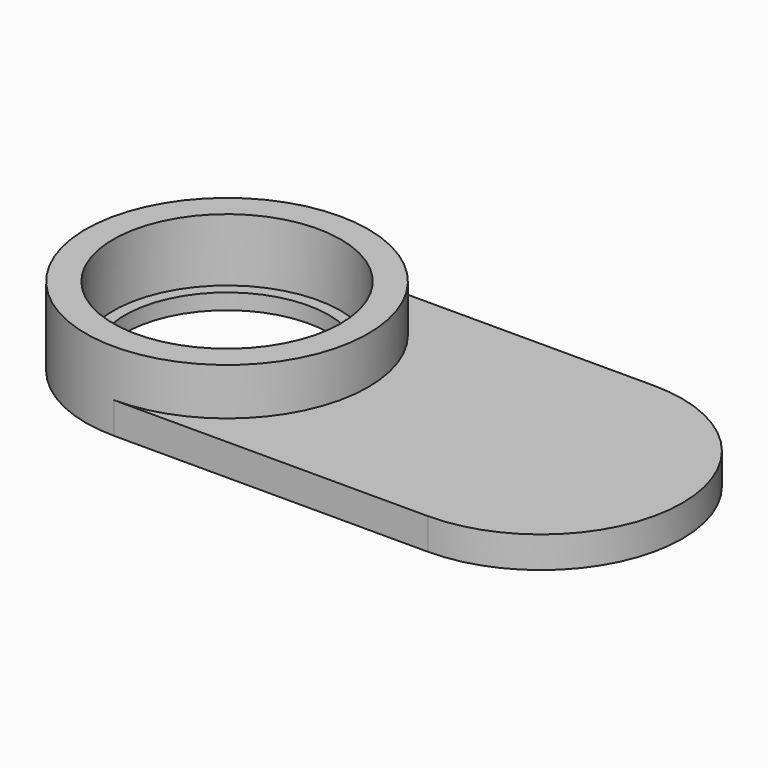
from build123d import *

# Parameters (mm, degrees)
F0_R     = 7.25
F1_DEPTH = 5
F0_R_2   = 6.5
F2_DEPTH = 1
F4_DEPTH = 3


with BuildPart() as f1:
    # F0 (on Top) → F1 (new body)
    with BuildSketch(Plane.XY):
        with BuildLine():
            Line((20, 9), (0, 9))
            ThreePointArc((0, 9), (-9, 0), (0, -9))
            Line((0, -9), (20, -9))
            ThreePointArc((20, -9), (29, 0), (20, 9))
        make_face()
        Circle(F0_R, mode=Mode.SUBTRACT)
    extrude(amount=F1_DEPTH)

    # F0 (on Top) → F2 (join)
    with BuildSketch(Plane.XY):
        Circle(F0_R)
        Circle(F0_R_2, mode=Mode.SUBTRACT)
    extrude(amount=F2_DEPTH)

    # F3 (on face) → F4 (cut)
    with BuildSketch(Plane.XY.offset(5)):
        with BuildLine():
            ThreePointArc((0, 9), (9, 0), (0, -9))
            Line((0, -9), (20, -9))
            ThreePointArc((20, -9), (29, 0), (20, 9))
            Line((20, 9), (0, 9))
        make_face()
    extrude(amount=-F4_DEPTH, mode=Mode.SUBTRACT)


solid = f1.part
